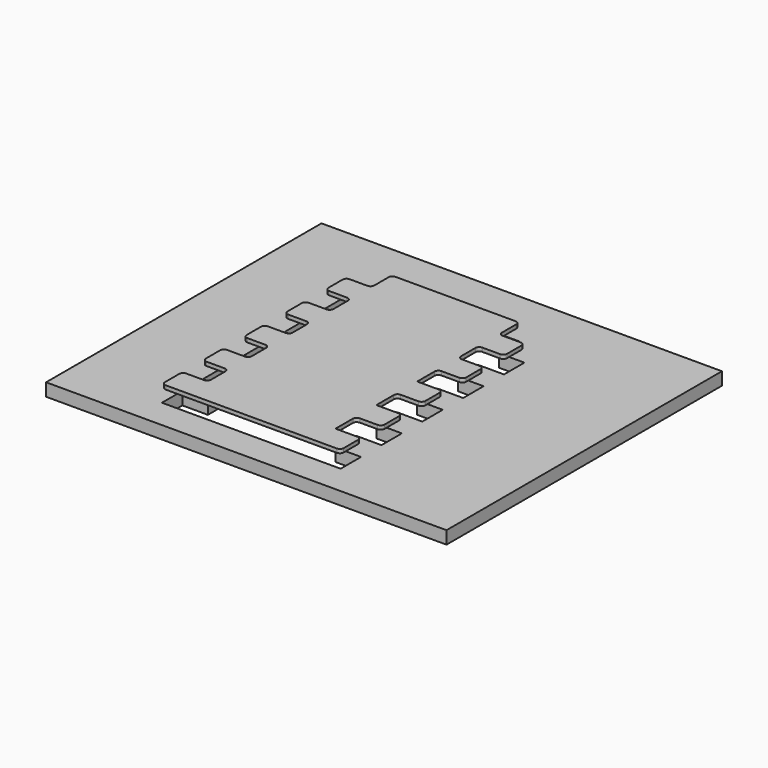
from build123d import *

# Parameters (mm, degrees)
F0_W     = 20
F0_H     = 20
F1_DEPTH = 3
F2_R     = 3
F3_START = -10
F0_W_2   = 313.7396425009
F0_H_2   = 269.723970443
F3_DEPTH = 10


with BuildPart() as f1:
    # F0 (on Top) → F1 (new body)
    with BuildSketch(Plane.XY):
        Polygon((-20, 0), (0, 0), (100, 0), (120, 0), (120, 20), (100, 20), (100, 40), (120, 40), (120, 60), (100, 60), (100, 80), (120, 80), (120, 100), (100, 100), (100, 120), (120, 120), (120, 140), (100, 140), (100, 160), (120, 160), (120, 180), (100, 180), (100, 200), (0, 200), (0, 180), (-20, 180), (-20, 160), (0, 160), (0, 140), (-20, 140), (-20, 120), (0, 120), (0, 100), (0, 80), (0, 60), (-20, 60), (-20, 40), (0, 40), (0, 20), (-20, 20), align=None)
        with Locations((-10, 90)):
            Rectangle(F0_W, F0_H)
    extrude(amount=F1_DEPTH)

    # F2
    f2_edges = [f1.edges().sort_by_distance(p)[0] for p in [
        (120, 160, 1.5),
        (100, 160, 1.5),
        (100, 120, 1.5),
        (100, 80, 1.5),
        (120, 80, 1.5),
        (120, 40, 1.5),
        (100, 40, 1.5),
        (120, 0, 1.5),
        (120, 20, 1.5),
        (120, 60, 1.5),
        (120, 100, 1.5),
        (120, 120, 1.5),
        (120, 140, 1.5),
        (120, 180, 1.5),
        (100, 200, 1.5),
        (-20, 40, 1.5),
        (-20, 0, 1.5),
        (-20, 80, 1.5),
        (-20, 120, 1.5),
        (-20, 160, 1.5),
        (-20, 180, 1.5),
        (0, 180, 1.5),
        (0, 140, 1.5),
        (0, 100, 1.5),
        (0, 60, 1.5),
        (0, 20, 1.5),
        (0, 120, 1.5),
        (0, 160, 1.5),
        (0, 40, 1.5),
        (0, 200, 1.5),
        (-20, 20, 1.5),
        (-20, 140, 1.5),
        (-20, 100, 1.5),
        (-20, 60, 1.5),
        (100, 140, 1.5),
        (0, 80, 1.5),
        (100, 180, 1.5),
    ]]
    fillet(f2_edges, radius=F2_R)


with BuildPart() as f3:
    # F0 (on Top) → F3 (new body)
    with BuildSketch(Plane.XY.offset(F3_START)):
        with Locations((64.596362412, 111.7345299572)):
            Rectangle(F0_W_2, F0_H_2)
        Polygon((100, 0), (0, 0), (-20, 0), (-20, 20), (0, 20), (0, 40), (-20, 40), (-20, 60), (0, 60), (0, 80), (-20, 80), (-20, 100), (0, 100), (0, 120), (-20, 120), (-20, 140), (0, 140), (0, 160), (-20, 160), (-20, 180), (0, 180), (0, 200), (100, 200), (100, 180), (120, 180), (120, 160), (100, 160), (100, 140), (120, 140), (120, 120), (100, 120), (100, 100), (120, 100), (120, 80), (100, 80), (100, 60), (120, 60), (120, 40), (100, 40), (100, 20), (120, 20), (120, 0), align=None, mode=Mode.SUBTRACT)
    extrude(amount=-F3_DEPTH)


solid = Compound([f1.part, f3.part])
